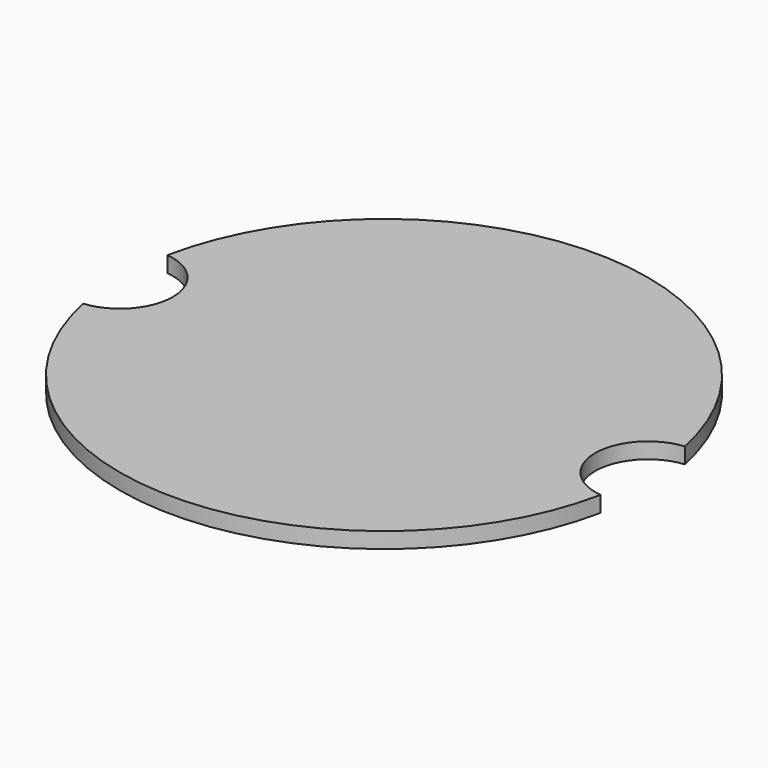
from build123d import *

# Parameters (mm, degrees)
PAD_DEPTH = 3


with BuildPart() as part:
    # Sketch → Pad (new body)
    with BuildSketch(Plane.XY):
        with BuildLine():
            ThreePointArc((-49, -9.949874), (-40, 0), (-49, 9.949874))
            ThreePointArc((49, 9.949874), (0, 50), (-49, 9.949874))
            ThreePointArc((49, 9.949874), (40, 0), (49, -9.949874))
            ThreePointArc((-49, -9.949874), (0, -50), (49, -9.949874))
        make_face()
    extrude(amount=PAD_DEPTH)


solid = part.part
